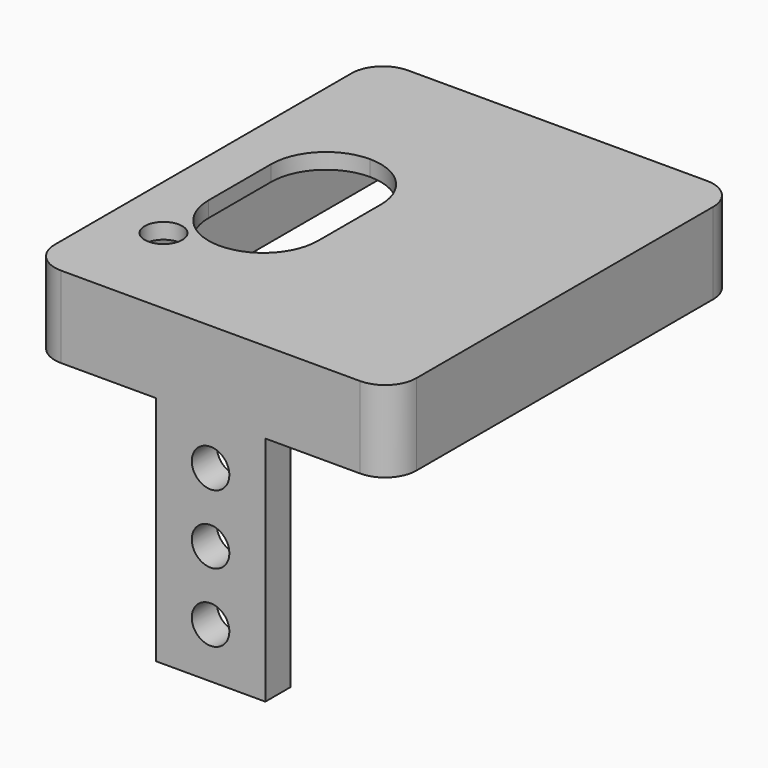
from build123d import *

# Parameters (mm, degrees)
F0_W      = 23.1
F0_H      = 27.7
F1_DEPTH  = 5.2
F2_W      = 19.1
F2_H      = 23.7
F3_DEPTH  = 4.2
F4_R      = 1.4
F4_R_2    = 1.2
F5_DEPTH  = 1
F6_R      = 1
F7_DEPTH  = 4
F8_W      = 23.1
F8_H      = 27.7
F8_R      = 1.2
F9_DEPTH  = 6.001
F10_R     = 2
F11_W     = 7
F11_H     = 20
F11_R     = 1.2
F12_DEPTH = 2


with BuildPart() as f1:
    # F0 (on Top) → F1 (new body)
    with BuildSketch(Plane.XY):
        with Locations((-2.071892, 11.85)):
            Rectangle(F0_W, F0_H)
        with BuildLine():
            Line((-10.621892, 8.53), (-10.621892, 13.53))
            ThreePointArc((-10.621892, 13.53), (-9.596766, 16.004874), (-7.121892, 17.03))
            ThreePointArc((-7.121892, 17.03), (-4.647019, 16.004874), (-3.621892, 13.53))
            Line((-3.621892, 13.53), (-3.621892, 8.53))
            ThreePointArc((-3.621892, 8.53), (-4.647019, 6.055126), (-7.121892, 5.03))
            ThreePointArc((-7.121892, 5.03), (-9.596766, 6.055126), (-10.621892, 8.53))
        make_face(mode=Mode.SUBTRACT)
        with Locations((-2.071892, 11.85)):
            Rectangle(F0_W, F0_H)
        with BuildLine():
            Line((-10.621892, 8.53), (-10.621892, 13.53))
            ThreePointArc((-10.621892, 13.53), (-9.596766, 16.004874), (-7.121892, 17.03))
            ThreePointArc((-7.121892, 17.03), (-4.647019, 16.004874), (-3.621892, 13.53))
            Line((-3.621892, 13.53), (-3.621892, 8.53))
            ThreePointArc((-3.621892, 8.53), (-4.647019, 6.055126), (-7.121892, 5.03))
            ThreePointArc((-7.121892, 5.03), (-9.596766, 6.055126), (-10.621892, 8.53))
        make_face(mode=Mode.SUBTRACT)
    extrude(amount=F1_DEPTH)

    # F2 (on Top) → F3 (cut)
    with BuildSketch(Plane.XY):
        with Locations((-2.071892, 11.85)):
            Rectangle(F2_W, F2_H)
    extrude(amount=F3_DEPTH, mode=Mode.SUBTRACT)

    # F4 (on face) → F5 (join)
    with BuildSketch(Plane(origin=(0, 0, 4.2), x_dir=(1, 0, 0), z_dir=(0, 0, -1))):
        with Locations((5.508108, -17.51)):
            Circle(F4_R)
        with Locations((-9.981892, -1.65)):
            Circle(F4_R_2)
    extrude(amount=F5_DEPTH)

    # F6 (on face) → F7 (join)
    with BuildSketch(Plane(origin=(0, 0, 3.2), x_dir=(1, 0, 0), z_dir=(0, 0, -1))):
        with Locations((-9.981892, -1.65)):
            Circle(F6_R)
        with Locations((5.508108, -17.51)):
            Circle(F6_R)
    extrude(amount=F7_DEPTH)

    # F8 (on face) → F9 (intersect, through all)
    with BuildSketch(Plane.XY.offset(5.2)):
        with Locations((-2.071892, 11.85)):
            Rectangle(F8_W, F8_H)
        with Locations((-10.169229, 4.364627)):
            Circle(F8_R, mode=Mode.SUBTRACT)
        with BuildLine():
            Line((-3.621892, 13.53), (-3.621892, 8.53))
            ThreePointArc((-3.621892, 8.53), (-7.121892, 5.03), (-10.621892, 8.53))
            Line((-10.621892, 8.53), (-10.621892, 13.53))
            ThreePointArc((-10.621892, 13.53), (-7.121892, 17.03), (-3.621892, 13.53))
        make_face(mode=Mode.SUBTRACT)
    extrude(amount=-F9_DEPTH, mode=Mode.INTERSECT)

    # F10
    f10_edges = [f1.edges().sort_by_distance(p)[0] for p in [
        (-13.621892, 25.7, 2.6),
        (-13.621892, -2, 2.6),
        (9.478108, -2, 2.6),
        (9.478108, 25.7, 2.6),
    ]]
    fillet(f10_edges, radius=F10_R)

    # F11 (on face) → F12 (join)
    with BuildSketch(Plane.XZ.offset(2)):
        with Locations((-2.071892, -4.8)):
            Rectangle(F11_W, F11_H)
        with Locations((-2.071892, -7.2)):
            Circle(F11_R, mode=Mode.SUBTRACT)
        with Locations((-2.071892, -11.6)):
            Circle(F11_R, mode=Mode.SUBTRACT)
        with Locations((-2.071892, -2.8)):
            Circle(F11_R, mode=Mode.SUBTRACT)
    extrude(amount=-F12_DEPTH)


solid = f1.part
